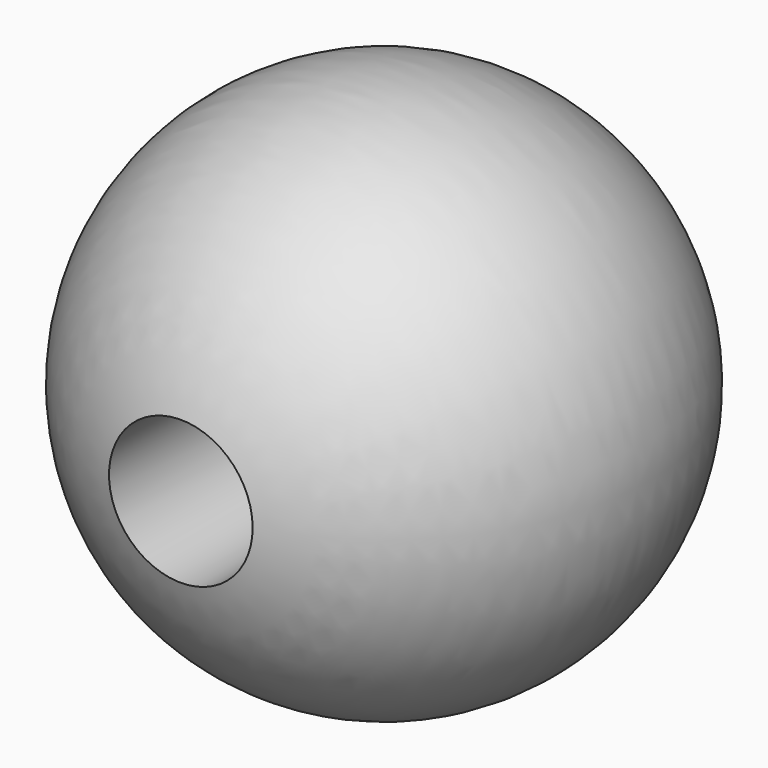
from build123d import *


with BuildPart() as f1:
    # F0 (on Top) → F1 (revolve)
    with BuildSketch(Plane.XY):
        with BuildLine():
            Line((0, 12.5), (0, 0))
            Line((0, 0), (0, -4.5))
            Line((0, -4.5), (3.4, -4.5))
            Line((3.4, -4.5), (3.4, -12.028716))
            ThreePointArc((3.4, -12.028716), (12.381618, 1.716254), (0, 12.5))
        make_face()
    revolve(axis=Axis((0, 6.25, 0), (0, 1, 0)))


solid = f1.part
